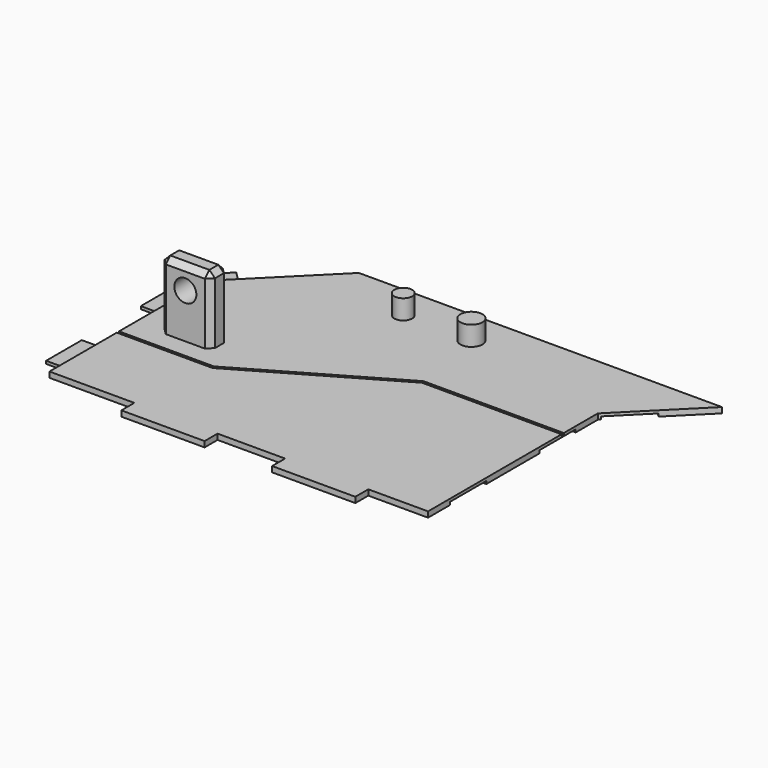
from build123d import *

# Parameters (mm, degrees)
PAD033_DEPTH    = 1
SKETCH055_W     = 8.1
SKETCH055_H     = 3.05
SKETCH055_W_2   = 3.05
SKETCH055_H_2   = 8.1
POCKET022_DEPTH = 0.5
POCKET023_DEPTH = 0.25
SKETCH057_W     = 3
SKETCH057_H     = 8
PAD034_DEPTH    = 0.5
SKETCH058_R     = 1.6
SKETCH058_R_2   = 1.97
PAD035_DEPTH    = 3.5
SKETCH059_W     = 9
SKETCH059_H     = 4
PAD036_DEPTH    = 12
SKETCH060_R     = 1.97
POCKET024_DEPTH = 31.34125859
CHAMFER009_SIZE = 1


with BuildPart() as part:
    # Sketch054 (on Face2 of Binder015) → Pad033 (new body)
    with BuildSketch(Plane(origin=(0, 0, -13), x_dir=(1, 0, 0), z_dir=(0, 0, -1))):
        Polygon((65.65, 44.999997), (65.65, 7.016667), (78, -5.333333), (13, -5.333333), (3.5165956595, 4.1500713405), (-2.14025859, 9.80692559), (-2.14025859, 44.999997), (13.05974141, 44.999997), (13.05974141, 47.899997), (27.95974141, 47.899997), (27.95974141, 44.999997), (40.05, 44.999997), (40.05, 47.899997), (54.95, 47.899997), (54.95, 44.999997), align=None)
    extrude(amount=-PAD033_DEPTH)

    # Sketch055 (on Face14 of Pad033) → Pocket022 (cut)
    with BuildSketch(Plane(origin=(0, 0, -13), x_dir=(1, 0, 0), z_dir=(0, 0, -1))):
        with Locations((22.5, -3.808333)):
            Rectangle(SKETCH055_W, SKETCH055_H)
        with Locations((45.5, -3.808333)):
            Rectangle(SKETCH055_W, SKETCH055_H)
        with Locations((68.5, -3.808333)):
            Rectangle(SKETCH055_W, SKETCH055_H)
        with Locations((64.125, 15.999997)):
            Rectangle(SKETCH055_W_2, SKETCH055_H_2)
        with Locations((64.125, 35.999997)):
            Rectangle(SKETCH055_W_2, SKETCH055_H_2)
        Polygon((71.6957629791, 0.9709040209), (69.5390872965, -1.1857716618), (63.8115223689, 4.5417932658), (65.9681980515, 6.6984689485), align=None)
        Polygon((11.119095962, -3.452428962), (5.3915310344, 2.2751359656), (7.5482067171, 4.4318116482), (13.2757716447, -1.2957532794), align=None)
    extrude(amount=-POCKET022_DEPTH, mode=Mode.SUBTRACT)

    # Sketch056 (on Face10 of Pocket022) → Pocket023 (cut)
    with BuildSketch(Plane.XY.offset(-12)):
        Polygon((65.65, -15.116667), (40.65, -15.116667), (14.9937160062, -29.9293294702), (-2.14025859, -29.9293294702), (-2.14025859, -29.4293294702), (14.85974141, -29.4293294702), (40.5160254038, -14.616667), (65.65, -14.616667), align=None)
    extrude(amount=-POCKET023_DEPTH, mode=Mode.SUBTRACT)

    # Sketch057 (on Face2 of Pocket023) → Pad034 (join)
    with BuildSketch(Plane(origin=(0, 0, -13), x_dir=(1, 0, 0), z_dir=(0, 0, -1))):
        with Locations((-3.64025859, 16.80692559)):
            Rectangle(SKETCH057_W, SKETCH057_H)
        with Locations((-3.64025859, 37.999997)):
            Rectangle(SKETCH057_W, SKETCH057_H)
        Polygon((1.0417219254, 6.6249450746), (-1.7867051994, 9.4533721994), (-3.9080255429, 7.3320518558), (-1.0795984182, 4.5036247311), align=None)
    extrude(amount=-PAD034_DEPTH)

    # Sketch058 (on Face9 of Pad034) → Pad035 (join)
    with BuildSketch(Plane.XY.offset(-12)):
        with Locations((25.85, -0.796667)):
            Circle(SKETCH058_R)
        with Locations((38.05, -0.796667)):
            Circle(SKETCH058_R_2)
    extrude(amount=PAD035_DEPTH)

    # Sketch059 (on Face10 of Pad035) → Pad036 (join)
    with BuildSketch(Plane.XY.offset(-12)):
        with Locations((6.99974141, -24.00692559)):
            Rectangle(SKETCH059_W, SKETCH059_H)
    extrude(amount=PAD036_DEPTH)

    # Sketch060 (on Face57 of Pad036) → Pocket024 (cut, through all)
    with BuildSketch(Plane.XZ.offset(26.00692559)):
        with Locations((6.99974141, -4)):
            Circle(SKETCH060_R)
    extrude(amount=-POCKET024_DEPTH, mode=Mode.SUBTRACT)

    # Chamfer009
    chamfer009_edges = [part.edges().sort_by_distance(p)[0] for p in [
        (2.499741, -26.006926, -6),
        (2.499741, -22.006926, -6),
        (2.499741, -24.006926, 0),
        (6.999741, -22.006926, 0),
        (11.499741, -24.006926, 0),
        (6.999741, -26.006926, 0),
        (11.499741, -26.006926, -6),
        (11.499741, -22.006926, -6),
    ]]
    chamfer(chamfer009_edges, length=CHAMFER009_SIZE)


solid = part.part
